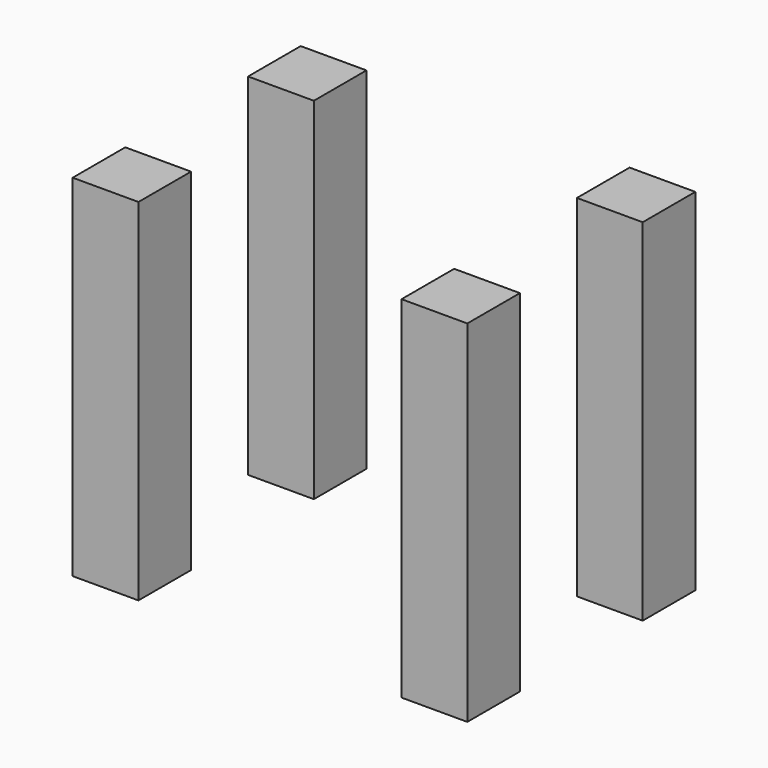
from build123d import *

# Parameters (mm, degrees)
F0_W     = 38.1
F0_H     = 38.1
F1_DEPTH = 406.4


with BuildPart() as f1:
    # F0 (on Top) → F1 (new body)
    with BuildSketch(Plane.XY):
        Polygon((-185.33669, -126.630816), (-185.33669, -88.530816), (-223.43669, -88.530816), (-223.43669, -164.730816), (-147.23669, -164.730816), (-147.23669, -126.630816), align=None)
        with Locations((-166.28669, -107.580816)):
            Rectangle(F0_W, F0_H)
        with Locations((176.61331, -107.580816)):
            Rectangle(F0_W, F0_H)
        Polygon((233.76331, -88.530816), (195.66331, -88.530816), (195.66331, -126.630816), (157.56331, -126.630816), (157.56331, -164.730816), (233.76331, -164.730816), align=None)
        with Locations((176.61331, 108.319184)):
            Rectangle(F0_W, F0_H)
        Polygon((157.56331, 165.469184), (157.56331, 127.369184), (195.66331, 127.369184), (195.66331, 89.269184), (233.76331, 89.269184), (233.76331, 165.469184), align=None)
        with Locations((-166.28669, 108.319184)):
            Rectangle(F0_W, F0_H)
        Polygon((-185.33669, 89.269184), (-185.33669, 127.369184), (-147.23669, 127.369184), (-147.23669, 165.469184), (-223.43669, 165.469184), (-223.43669, 89.269184), align=None)
    extrude(amount=-F1_DEPTH)


solid = f1.part
